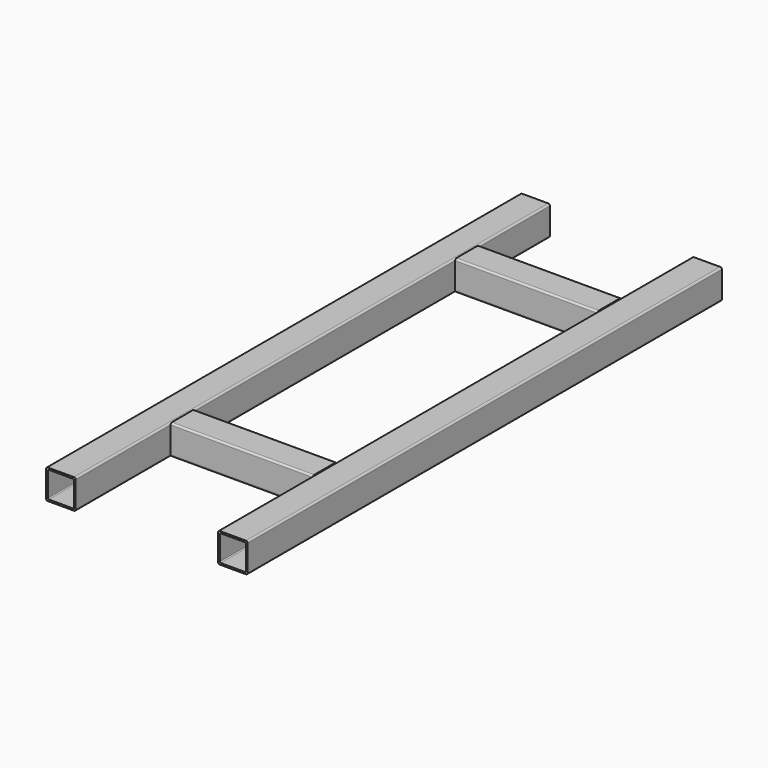
from build123d import *

# Parameters (mm, degrees)
F4_DEPTH = 1000
F5_DEPTH = 240


with BuildPart() as f4:
    # F1 (on offset) → F4 (new body)
    with BuildSketch(Plane.XZ.offset(500)):
        with BuildLine():
            Line((-167, 0), (-123, 0))
            ThreePointArc((-123, 0), (-120.87868, 0.87868), (-120, 3))
            Line((-120, 3), (-120, 47))
            ThreePointArc((-120, 47), (-120.87868, 49.12132), (-123, 50))
            Line((-123, 50), (-167, 50))
            ThreePointArc((-167, 50), (-169.12132, 49.12132), (-170, 47))
            Line((-170, 47), (-170, 3))
            ThreePointArc((-170, 3), (-169.12132, 0.87868), (-167, 0))
        make_face()
        with BuildLine():
            Line((-123, 45.5), (-123, 4.5))
            ThreePointArc((-123, 4.5), (-123.43934, 3.43934), (-124.5, 3))
            Line((-124.5, 3), (-165.5, 3))
            ThreePointArc((-165.5, 3), (-166.56066, 3.43934), (-167, 4.5))
            Line((-167, 4.5), (-167, 45.5))
            ThreePointArc((-167, 45.5), (-166.56066, 46.56066), (-165.5, 47))
            Line((-165.5, 47), (-124.5, 47))
            ThreePointArc((-124.5, 47), (-123.43934, 46.56066), (-123, 45.5))
        make_face(mode=Mode.SUBTRACT)
        with BuildLine():
            Line((123, 0), (167, 0))
            ThreePointArc((167, 0), (169.12132, 0.87868), (170, 3))
            Line((170, 3), (170, 47))
            ThreePointArc((170, 47), (169.12132, 49.12132), (167, 50))
            Line((167, 50), (123, 50))
            ThreePointArc((123, 50), (120.87868, 49.12132), (120, 47))
            Line((120, 47), (120, 3))
            ThreePointArc((120, 3), (120.87868, 0.87868), (123, 0))
        make_face()
        with BuildLine():
            ThreePointArc((167, 4.5), (166.56066, 3.43934), (165.5, 3))
            Line((165.5, 3), (124.5, 3))
            ThreePointArc((124.5, 3), (123.43934, 3.43934), (123, 4.5))
            Line((123, 4.5), (123, 45.5))
            ThreePointArc((123, 45.5), (123.43934, 46.56066), (124.5, 47))
            Line((124.5, 47), (165.5, 47))
            ThreePointArc((165.5, 47), (166.56066, 46.56066), (167, 45.5))
            Line((167, 45.5), (167, 4.5))
        make_face(mode=Mode.SUBTRACT)
    extrude(amount=-F4_DEPTH)


with BuildPart() as f5:
    # F3 (on offset) → F5 (new body)
    with BuildSketch(Plane.YZ.offset(120)):
        with BuildLine():
            Line((-253, 50), (-297, 50))
            ThreePointArc((-297, 50), (-299.12132, 49.12132), (-300, 47))
            Line((-300, 47), (-300, 3))
            ThreePointArc((-300, 3), (-299.12132, 0.87868), (-297, 0))
            Line((-297, 0), (-253, 0))
            ThreePointArc((-253, 0), (-250.87868, 0.87868), (-250, 3))
            Line((-250, 3), (-250, 47))
            ThreePointArc((-250, 47), (-250.87868, 49.12132), (-253, 50))
        make_face()
        with BuildLine():
            ThreePointArc((-254.5, 47), (-253.43934, 46.56066), (-253, 45.5))
            Line((-253, 45.5), (-253, 4.5))
            ThreePointArc((-253, 4.5), (-253.43934, 3.43934), (-254.5, 3))
            Line((-254.5, 3), (-295.5, 3))
            ThreePointArc((-295.5, 3), (-296.56066, 3.43934), (-297, 4.5))
            Line((-297, 4.5), (-297, 45.5))
            ThreePointArc((-297, 45.5), (-296.56066, 46.56066), (-295.5, 47))
            Line((-295.5, 47), (-254.5, 47))
        make_face(mode=Mode.SUBTRACT)
        with BuildLine():
            Line((347, 50), (303, 50))
            ThreePointArc((303, 50), (300.87868, 49.12132), (300, 47))
            Line((300, 47), (300, 3))
            ThreePointArc((300, 3), (300.87868, 0.87868), (303, 0))
            Line((303, 0), (347, 0))
            ThreePointArc((347, 0), (349.12132, 0.87868), (350, 3))
            Line((350, 3), (350, 47))
            ThreePointArc((350, 47), (349.12132, 49.12132), (347, 50))
        make_face()
        with BuildLine():
            Line((303, 4.5), (303, 45.5))
            ThreePointArc((303, 45.5), (303.43934, 46.56066), (304.5, 47))
            Line((304.5, 47), (345.5, 47))
            ThreePointArc((345.5, 47), (346.56066, 46.56066), (347, 45.5))
            Line((347, 45.5), (347, 4.5))
            ThreePointArc((347, 4.5), (346.56066, 3.43934), (345.5, 3))
            Line((345.5, 3), (304.5, 3))
            ThreePointArc((304.5, 3), (303.43934, 3.43934), (303, 4.5))
        make_face(mode=Mode.SUBTRACT)
    extrude(amount=-F5_DEPTH)


solid = Compound([f4.part, f5.part])
